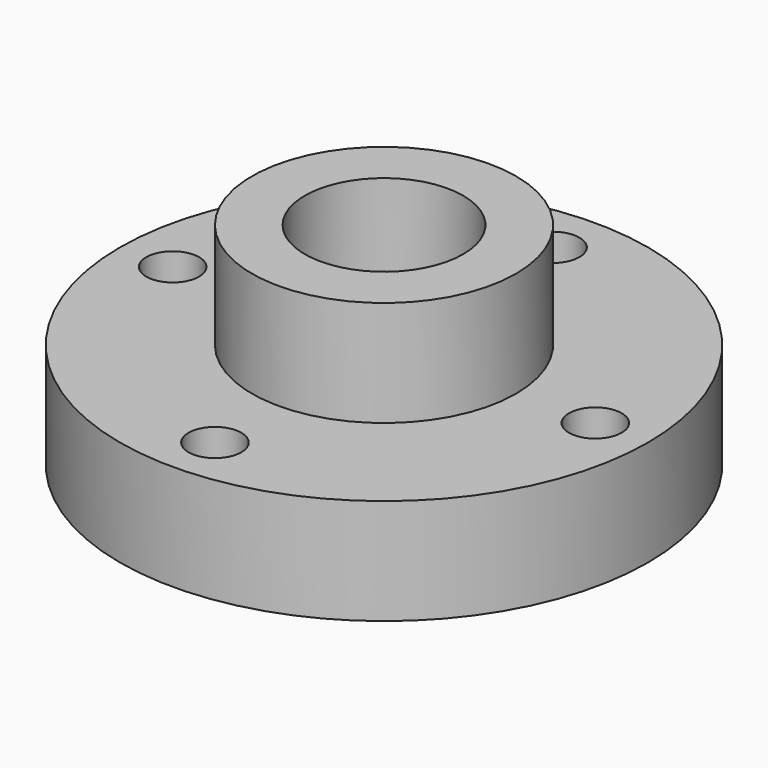
from build123d import *

# Parameters (mm, degrees)
F0_R     = 31.75
F1_DEPTH = 12.7
F2_R     = 3.175
F3_DEPTH = 12.701
F2_R_2   = 15.875
F2_R_3   = 9.525
F4_DEPTH = 12.7


with BuildPart() as f1:
    # F0 (on Top) → F1 (new body)
    with BuildSketch(Plane.XY):
        Circle(F0_R)
    extrude(amount=F1_DEPTH)

    # F2 (on face) → F3 (cut, through all)
    with BuildSketch(Plane.XY.offset(12.7)):
        with Locations((-25.4, 0)):
            Circle(F2_R)
        with Locations((0, -25.4)):
            Circle(F2_R)
        with Locations((25.4, 0)):
            Circle(F2_R)
        with Locations((0, 25.4)):
            Circle(F2_R)
    extrude(amount=-F3_DEPTH, mode=Mode.SUBTRACT)

    # F2 (on face) → F4 (join)
    with BuildSketch(Plane.XY.offset(12.7)):
        Circle(F2_R_2)
        Circle(F2_R_3, mode=Mode.SUBTRACT)
    extrude(amount=F4_DEPTH)


solid = f1.part
